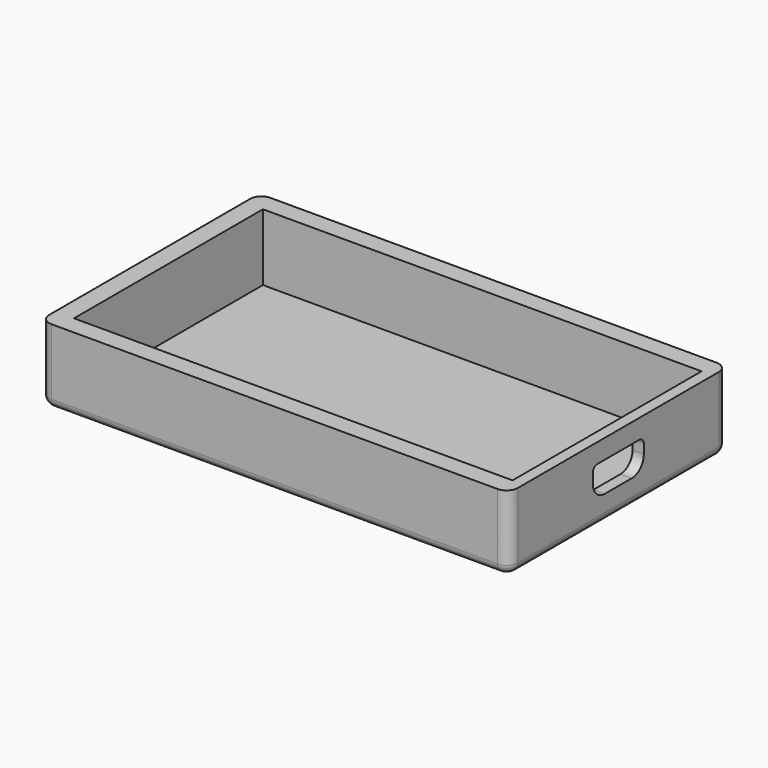
from build123d import *

# Parameters (mm, degrees)
F0_W     = 62.5
F0_H     = 36.5
F0_W_2   = 58.5
F0_H_2   = 31.5
F1_DEPTH = 10
F2_DEPTH = 1.1
F3_R     = 1.5
F4_R     = 1.2
F6_DEPTH = 3


with BuildPart() as f1:
    # F0 (on Top) → F1 (new body)
    with BuildSketch(Plane.XY):
        with Locations((0.005647, 0.384062)):
            Rectangle(F0_W, F0_H)
        with Locations((0.505647, 0.384062)):
            Rectangle(F0_W_2, F0_H_2, mode=Mode.SUBTRACT)
    extrude(amount=F1_DEPTH)

    # F0 (on Top) → F2 (join)
    with BuildSketch(Plane.XY):
        with Locations((0.505647, 0.384062)):
            Rectangle(F0_W_2, F0_H_2)
    extrude(amount=F2_DEPTH)

    # F3
    f3_edges = [f1.edges().sort_by_distance(p)[0] for p in [
        (31.255647, -17.865938, 5),
        (31.255647, 18.634062, 5),
        (-31.244353, 18.634062, 5),
        (-31.244353, -17.865938, 5),
    ]]
    fillet(f3_edges, radius=F3_R)

    # F4
    f4_edges = [f1.edges().sort_by_distance(p)[0] for p in [
        (0.005647, 18.634062, 0),
        (30.816307, 18.194723, 0),
        (-30.805013, 18.194723, 0),
        (31.255647, 0.384062, 0),
        (-31.244353, 0.384062, 0),
        (30.816307, -17.426598, 0),
        (-30.805013, -17.426598, 0),
        (0.005647, -17.865938, 0),
    ]]
    fillet(f4_edges, radius=F4_R)

    # F5 (on face) → F6 (cut)
    with BuildSketch(Plane.YZ.offset(31.255647)):
        with BuildLine():
            Line((3.884062, 7.420129), (-3.115938, 7.420129))
            ThreePointArc((-3.115938, 7.420129), (-3.646268, 7.200459), (-3.865938, 6.670129))
            Line((-3.865938, 6.670129), (-3.865938, 5.420129))
            ThreePointArc((-3.865938, 5.420129), (-3.280151, 4.005916), (-1.865938, 3.420129))
            Line((-1.865938, 3.420129), (2.634062, 3.420129))
            ThreePointArc((2.634062, 3.420129), (4.048276, 4.005916), (4.634062, 5.420129))
            Line((4.634062, 5.420129), (4.634062, 6.670129))
            ThreePointArc((4.634062, 6.670129), (4.414393, 7.200459), (3.884062, 7.420129))
        make_face()
    extrude(amount=-F6_DEPTH, mode=Mode.SUBTRACT)


solid = f1.part
